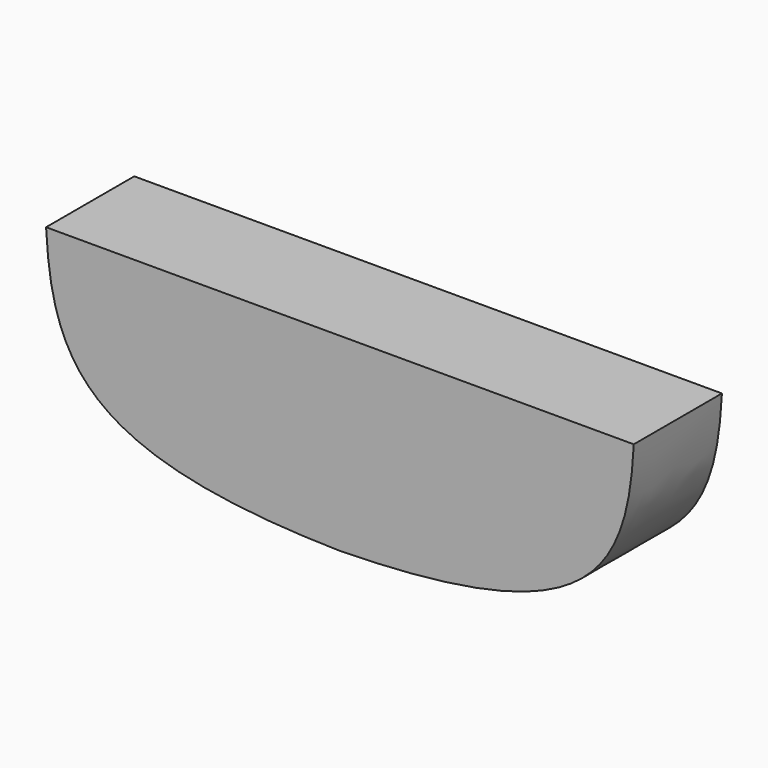
from build123d import *

# Parameters (mm, degrees)
F1_DEPTH = 38.1


with BuildPart() as f1:
    # F0 (on Front) → F1 (new body)
    with BuildSketch(Plane.XZ):
        with BuildLine():
            Line((0, 0), (-101.6, 0))
            add(Edge.make_bspline(
                [(-101.6, 0), (-99.49287, -41.202858), (-86.420819, -63.957922), (0, -65.486386)],
                knots=[0, 0, 0, 0, 120.87608, 120.87608, 120.87608, 120.87608], degree=3))
            Line((0, -65.486386), (0, 0))
        make_face()
        with BuildLine():
            Line((101.6, 0), (0, 0))
            Line((0, 0), (0, -65.486386))
            add(Edge.make_bspline(
                [(101.6, 0), (99.49287, -41.202858), (86.420819, -63.957922), (0, -65.486386)],
                knots=[0, 0, 0, 0, 120.87608, 120.87608, 120.87608, 120.87608], degree=3))
        make_face()
    extrude(amount=F1_DEPTH)


solid = f1.part
